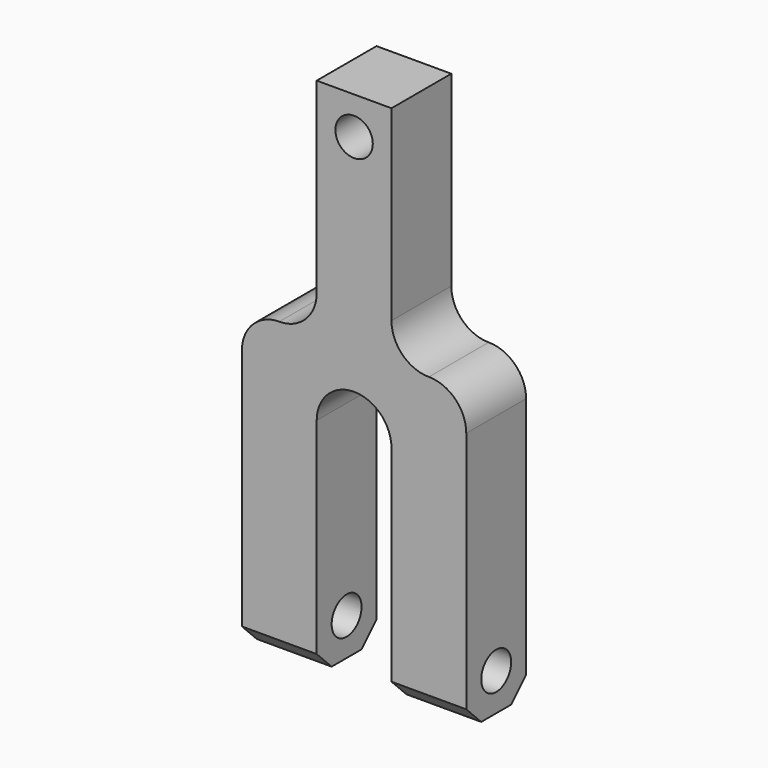
from build123d import *

# Parameters (mm, degrees)
F0_R     = 6.35
F1_DEPTH = 12.7
F2_SIZE  = 6.35
F3_R     = 6.35
F4_DEPTH = 76.2


with BuildPart() as f1:
    # F0 (on Front) → F1 (new body, symmetric)
    with BuildSketch(Plane.XZ):
        with BuildLine():
            Line((12.7, -25.4), (12.7, 38.1))
            Line((12.7, 38.1), (-12.7, 38.1))
            Line((-12.7, 38.1), (-12.7, -25.4))
            ThreePointArc((-12.7, -25.4), (-16.419744, -34.380256), (-25.4, -38.1))
            ThreePointArc((-25.4, -38.1), (-34.380256, -41.819744), (-38.1, -50.8))
            Line((-38.1, -50.8), (-38.1, -139.7))
            Line((-38.1, -139.7), (-12.7, -139.7))
            Line((-12.7, -139.7), (-12.7, -63.5))
            ThreePointArc((-12.7, -63.5), (0, -50.8), (12.7, -63.5))
            Line((12.7, -63.5), (12.7, -139.7))
            Line((12.7, -139.7), (38.1, -139.7))
            Line((38.1, -139.7), (38.1, -50.8))
            ThreePointArc((38.1, -50.8), (34.380256, -41.819744), (25.4, -38.1))
            ThreePointArc((25.4, -38.1), (16.419744, -34.380256), (12.7, -25.4))
        make_face()
        with Locations((0, 25.4)):
            Circle(F0_R, mode=Mode.SUBTRACT)
    extrude(amount=F1_DEPTH, both=True)

    # F2
    f2_edges = [f1.edges().sort_by_distance(p)[0] for p in [
        (-25.4, 12.7, -139.7),
        (-25.4, -12.7, -139.7),
        (25.4, -12.7, -139.7),
        (25.4, 12.7, -139.7),
    ]]
    chamfer(f2_edges, length=F2_SIZE)

    # F3 (on face) → F4 (cut)
    with BuildSketch(Plane.YZ.offset(38.1)):
        with Locations((0, -127)):
            Circle(F3_R)
    extrude(amount=-F4_DEPTH, mode=Mode.SUBTRACT)


solid = f1.part
